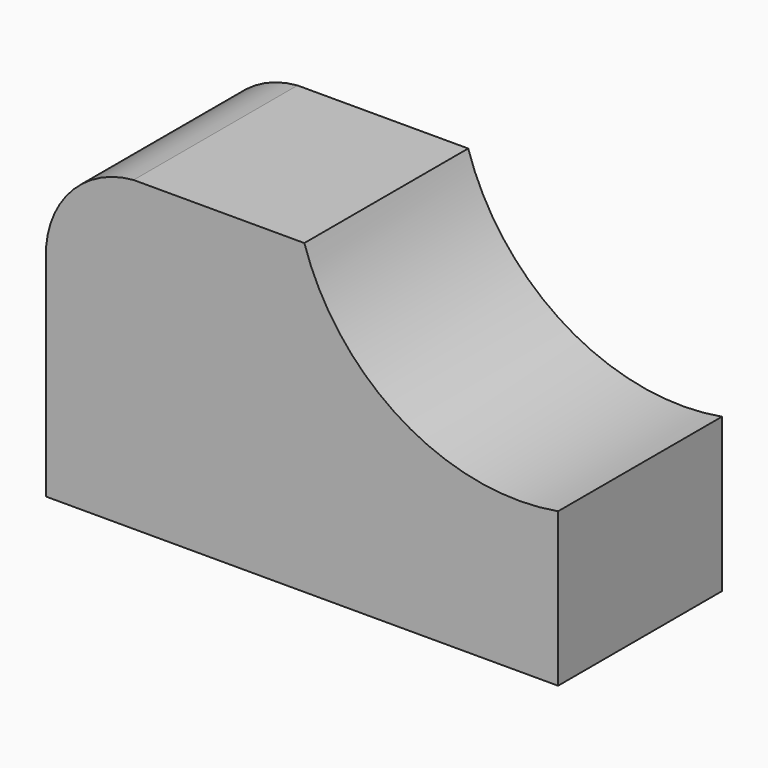
from build123d import *

# Parameters (mm, degrees)
F0_W     = 63.5
F0_H     = 38.1
F1_DEPTH = 25.4
F3_DEPTH = 25.4
F5_DEPTH = 25.4


with BuildPart() as f1:
    # F0 (on Front) → F1 (new body)
    with BuildSketch(Plane.XZ):
        with Locations((31.75, 19.05)):
            Rectangle(F0_W, F0_H)
    extrude(amount=F1_DEPTH)

    # F2 (on face) → F3 (cut)
    with BuildSketch(Plane.XZ.offset(25.4)):
        with BuildLine():
            ThreePointArc((0, 27.2450184846), (3.4240390206, 34.6759609794), (10.8549815154, 38.1))
            Line((10.8549815154, 38.1), (0, 38.1))
            Line((0, 38.1), (0, 27.2450184846))
        make_face()
    extrude(amount=-F3_DEPTH, mode=Mode.SUBTRACT)

    # F4 (on face) → F5 (cut)
    with BuildSketch(Plane.XZ.offset(25.4)):
        with BuildLine():
            Line((63.5, 19.05), (63.5, 38.1))
            Line((63.5, 38.1), (32.0302583277, 38.1))
            ThreePointArc((32.0302583277, 38.1), (44.1825704722, 22.6567744591), (63.5, 19.05))
        make_face()
    extrude(amount=-F5_DEPTH, mode=Mode.SUBTRACT)


solid = f1.part
